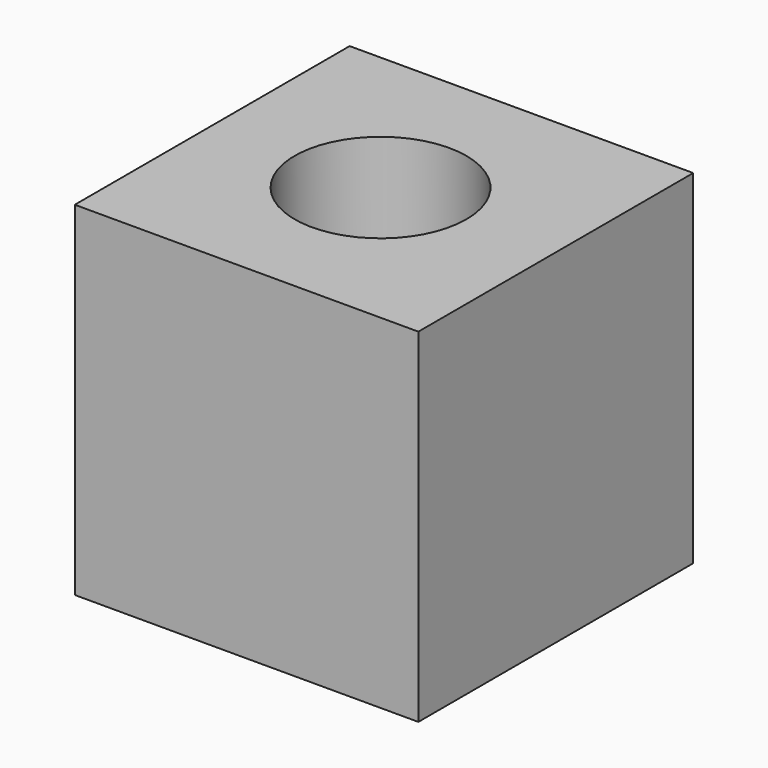
from build123d import *

# Parameters (mm, degrees)
F0_W     = 12.7
F0_H     = 12.7
F1_DEPTH = 12.7
F2_R     = 3.175
F3_DEPTH = 15.24


with BuildPart() as f1:
    # F0 (on Front) → F1 (new body)
    with BuildSketch(Plane.XZ):
        with Locations((0.129049, -2.630143)):
            Rectangle(F0_W, F0_H)
    extrude(amount=F1_DEPTH)

    # F2 (on face) → F3 (cut)
    with BuildSketch(Plane.XY.offset(3.719857)):
        with Locations((0, -6.35)):
            Circle(F2_R)
    extrude(amount=-F3_DEPTH, mode=Mode.SUBTRACT)


solid = f1.part
